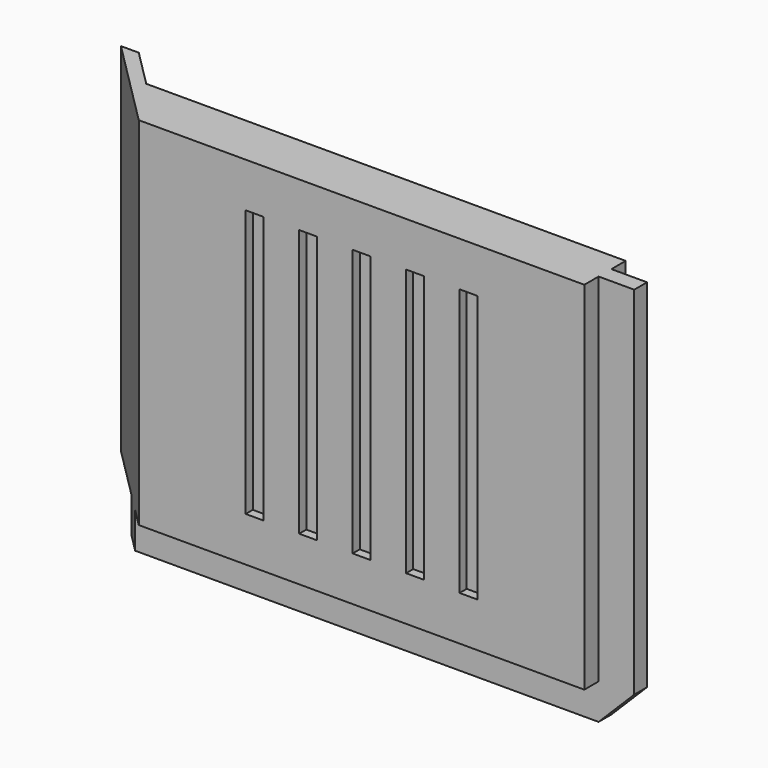
from build123d import *

# Parameters (mm, degrees)
SKETCH_W        = 32
SKETCH_H        = 20
PAD_DEPTH       = 22
CHAMFER_SIZE    = 5
SKETCH001_W     = 32
SKETCH001_H     = 15
POCKET_DEPTH    = 22
SKETCH002_W     = 32
SKETCH002_H     = 1
POCKET001_DEPTH = 2
SKETCH003_W     = 32
SKETCH003_H     = 3.1
POCKET002_DEPTH = 2
SKETCH004_W     = 2
SKETCH004_H     = 1
SKETCH004_H_2   = 3.1
POCKET003_DEPTH = 20
PAD001_DEPTH    = 2
POCKET004_DEPTH = 20
SKETCH007_W     = 1
SKETCH007_H     = 15
POCKET005_DEPTH = 0.5
CHAMFER001_SIZE = 2


with BuildPart() as part:
    # Sketch → Pad (new body)
    with BuildSketch(Plane.XY):
        with Locations((16, -10)):
            Rectangle(SKETCH_W, SKETCH_H)
    extrude(amount=PAD_DEPTH)

    # Chamfer
    chamfer_edges = [part.edges().sort_by_distance(p)[0] for p in [
        (0, -20, 11),
    ]]
    chamfer(chamfer_edges, length=CHAMFER_SIZE)

    # Sketch001 → Pocket (cut)
    with BuildSketch(Plane.XY.offset(22)):
        with Locations((16, -7.5)):
            Rectangle(SKETCH001_W, SKETCH001_H)
    extrude(amount=-POCKET_DEPTH, mode=Mode.SUBTRACT)

    # Sketch002 → Pocket001 (cut)
    with BuildSketch(Plane(origin=(0, 0, 0), x_dir=(1, 0, 0), z_dir=(0, 0, -1))):
        with Locations((16, 19.5)):
            Rectangle(SKETCH002_W, SKETCH002_H)
    extrude(amount=-POCKET001_DEPTH, mode=Mode.SUBTRACT)

    # Sketch003 → Pocket002 (cut)
    with BuildSketch(Plane(origin=(0, 0, 0), x_dir=(1, 0, 0), z_dir=(0, 0, -1))):
        with Locations((16, 16.55)):
            Rectangle(SKETCH003_W, SKETCH003_H)
    extrude(amount=-POCKET002_DEPTH, mode=Mode.SUBTRACT)

    # Sketch004 → Pocket003 (cut)
    with BuildSketch(Plane(origin=(0, 0, 2), x_dir=(1, 0, 0), z_dir=(0, 0, -1))):
        with Locations((31, 19.5)):
            Rectangle(SKETCH004_W, SKETCH004_H)
        with Locations((31, 16.55)):
            Rectangle(SKETCH004_W, SKETCH004_H_2)
    extrude(amount=-POCKET003_DEPTH, mode=Mode.SUBTRACT)

    # Sketch005 → Pad001 (new body)
    with BuildSketch(Plane(origin=(0, 0, 2), x_dir=(1, 0, 0), z_dir=(0, 0, -1))):
        Polygon((3.1, 18.1), (3, 18), (5.0281, 18.1), align=None)
    extrude(amount=PAD001_DEPTH)

    # Sketch006 → Pocket004 (cut)
    with BuildSketch(Plane(origin=(0, 0, 2), x_dir=(1, 0, 0), z_dir=(0, 0, -1))):
        Polygon((30, 15), (1, 15), (3.1, 17.1), (30, 17.1), align=None)
    extrude(amount=-POCKET004_DEPTH, mode=Mode.SUBTRACT)

    # Sketch007 → Pocket005 (cut)
    with BuildSketch(Plane.XZ.offset(20)):
        with Locations((11.5, 12)):
            Rectangle(SKETCH007_W, SKETCH007_H)
        with Locations((14.5, 12)):
            Rectangle(SKETCH007_W, SKETCH007_H)
        with Locations((17.5, 12)):
            Rectangle(SKETCH007_W, SKETCH007_H)
        with Locations((20.5, 12)):
            Rectangle(SKETCH007_W, SKETCH007_H)
        with Locations((23.5, 12)):
            Rectangle(SKETCH007_W, SKETCH007_H)
    extrude(amount=-POCKET005_DEPTH, mode=Mode.SUBTRACT)

    # Chamfer001
    chamfer001_edges = [part.edges().sort_by_distance(p)[0] for p in [
        (32, -18.55, 0),
    ]]
    chamfer(chamfer001_edges, length=CHAMFER001_SIZE)


solid = part.part
